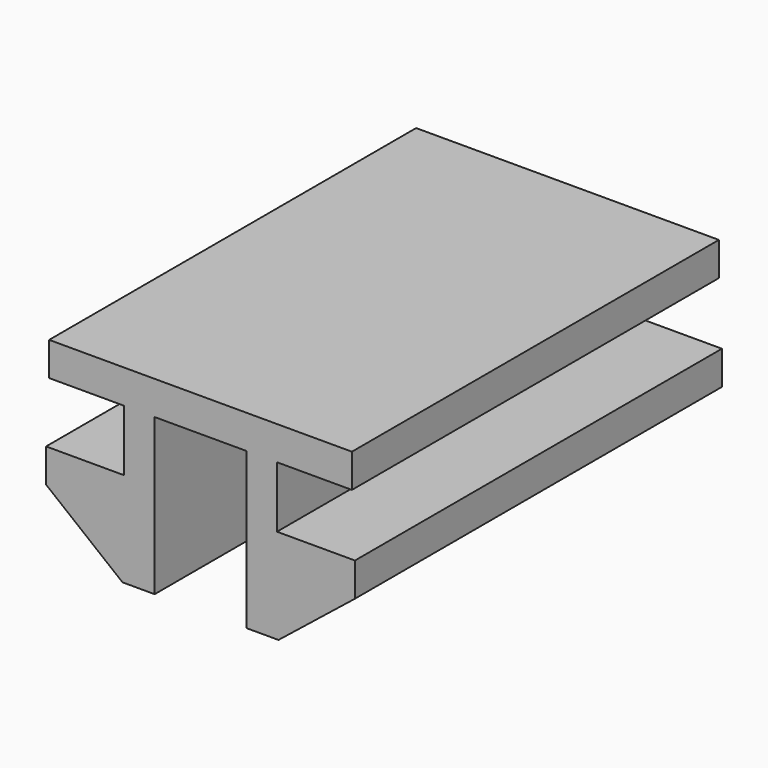
from build123d import *

# Parameters (mm, degrees)
F1_DEPTH = 15


with BuildPart() as f1:
    # F0 (on Front) → F1 (new body)
    with BuildSketch(Plane.XZ):
        Polygon((-2.5, 0.55), (-5.05, 0.55), (-5.05, -0.55), (-2.55, -2.55), (-1.5, -2.55), (-1.5, 2.55), (0, 2.55), (1.5, 2.55), (1.5, -2.55), (2.55, -2.55), (5.05, -0.55), (5.05, 0.55), (2.5, 0.55), (2.5, 2.55), (4.95, 2.55), (4.95, 3.65), (-4.95, 3.65), (-4.95, 2.55), (-2.5, 2.55), align=None)
    extrude(amount=F1_DEPTH)


solid = f1.part
